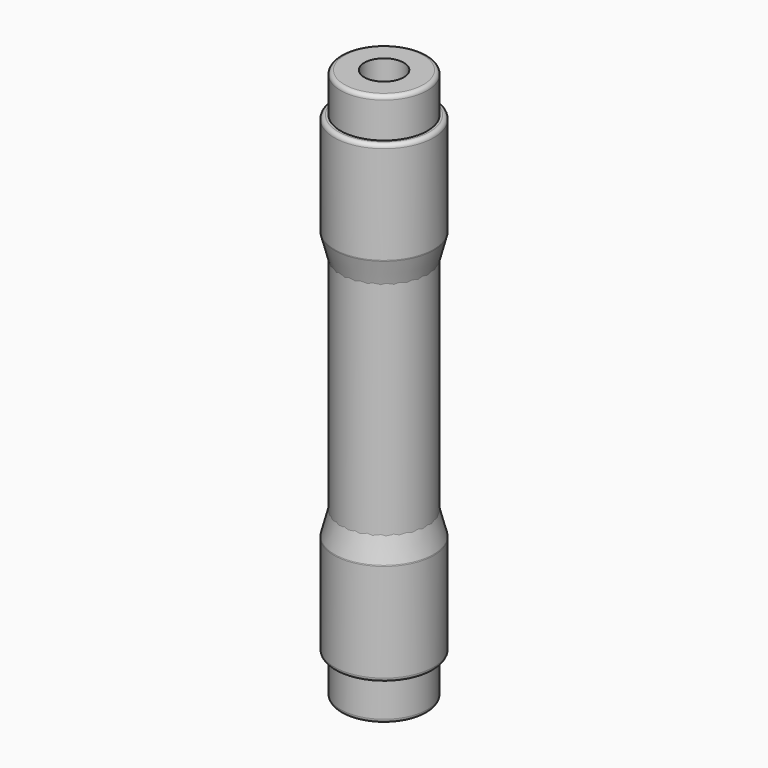
from build123d import *

# Parameters (mm, degrees)
F2_R     = 0.25
F4_R     = 2.75
F4_R_2   = 1.25
F5_DEPTH = 17.5
F6_R     = 0.25


with BuildPart() as f1:
    # F0 (on Front) → F1 (revolve)
    with BuildSketch(Plane.XZ):
        Polygon((3.15, 15), (1.25, 15), (1.25, 0), (2.5, 0), (2.5, 6), (3.15, 8.5), align=None)
    revolve(axis=Axis((0, 0, 7.5), (0, 0, 1)))

    # F2
    f2_edges = [f1.edges().sort_by_distance(p)[0] for p in [
        (-3.15, 0, 15),
        (-3.15, 0, 8.5),
        (-2.5, 0, 6),
    ]]
    fillet(f2_edges, radius=F2_R)

    # F3: F1 across plane


with BuildPart() as f1_1:
    add(f1.part)
    add(f1.part.mirror(Plane.XY))


with BuildPart() as f5:
    # F4 (on Top) → F5 (new body, symmetric)
    with BuildSketch(Plane.XY):
        Circle(F4_R)
        Circle(F4_R_2, mode=Mode.SUBTRACT)
    extrude(amount=F5_DEPTH, both=True)

    # F6
    f6_edges = [f5.edges().sort_by_distance(p)[0] for p in [
        (-2.75, 0, 17.5),
        (-2.75, 0, -17.5),
    ]]
    fillet(f6_edges, radius=F6_R)


solid = Compound([f1_1.part, f5.part])
